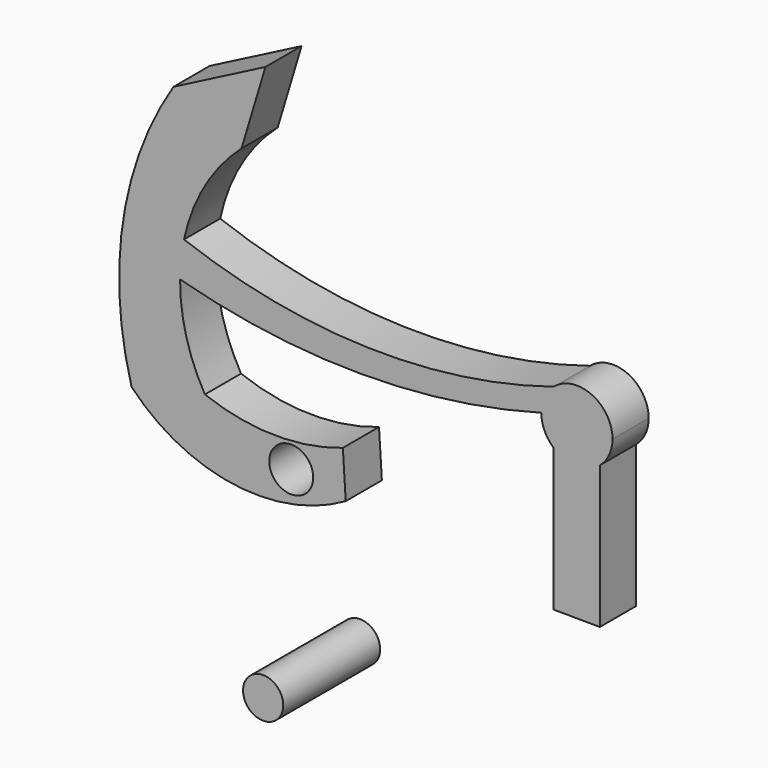
from build123d import *

# Parameters (mm, degrees)
F0_R     = 3.089539
F1_DEPTH = 6.35
F0_R_2   = 2.825653
F2_DEPTH = 17.018


with BuildPart() as f1:
    # F0 (on Front) → F1 (new body)
    with BuildSketch(Plane.XZ):
        Polygon((-56.688249, 23.506869), (-47.121864, 19.002175), (-43.765958, 30.166686), align=None)
        with BuildLine():
            ThreePointArc((-58.178127, 6.283986), (-56.695223, 5.683083), (-55.200634, 5.11186))
            ThreePointArc((-55.200634, 5.11186), (-52.276439, 12.705625), (-47.121864, 19.002175))
            Line((-47.121864, 19.002175), (-56.688249, 23.506869))
            ThreePointArc((-56.688249, 23.506869), (-63.779789, 4.613207), (-62.569864, -15.531184))
            ThreePointArc((-62.569864, -15.531184), (-48.277407, -22.903844), (-32.483652, -19.872714))
            Line((-32.483652, -19.872714), (-32.887511, -13.410942))
            ThreePointArc((-32.887511, -13.410942), (-42.606078, -14.962733), (-52.271411, -13.10802))
            ThreePointArc((-52.271411, -13.10802), (-54.894803, -6.788305), (-55.754967, 0))
            Line((-55.754967, 0), (-58.178127, 6.283986))
        make_face()
        with Locations((-40.140368, -18.433705)):
            Circle(F0_R, mode=Mode.SUBTRACT)
        with BuildLine():
            ThreePointArc((-5, 0), (-4.5455, 2.08289), (-3.264628, 3.78711))
            ThreePointArc((-3.264628, 3.78711), (-29.342787, 0.130887), (-55.200634, 5.11186))
            ThreePointArc((-55.200634, 5.11186), (-55.606148, 2.569848), (-55.754967, 0))
            ThreePointArc((-55.754967, 0), (-30.377484, -3.431996), (-5, 0))
        make_face()
        with BuildLine():
            ThreePointArc((3.223639, -3.822062), (4.534214, -2.107345), (5, 0))
            ThreePointArc((5, 0), (2.08289, 4.5455), (-3.264628, 3.78711))
            ThreePointArc((-3.264628, 3.78711), (-4.5455, 2.08289), (-5, 0))
            ThreePointArc((-5, 0), (-4.5455, -2.08289), (-3.264628, -3.78711))
            ThreePointArc((-3.264628, -3.78711), (-0.026934, -4.999927), (3.223639, -3.822062))
        make_face()
        with BuildLine():
            Line((3.223639, -23.822062), (3.223639, -3.822062))
            ThreePointArc((3.223639, -3.822062), (-0.026934, -4.999927), (-3.264628, -3.78711))
            Line((-3.264628, -3.78711), (-3.264628, -23.78711))
            Line((-3.264628, -23.78711), (3.223639, -23.822062))
        make_face()
        with BuildLine():
            ThreePointArc((-55.754967, 0), (-55.606148, 2.569848), (-55.200634, 5.11186))
            ThreePointArc((-55.200634, 5.11186), (-56.695223, 5.683083), (-58.178127, 6.283986))
            Line((-58.178127, 6.283986), (-55.754967, 0))
        make_face()
    extrude(amount=F1_DEPTH)


with BuildPart() as f2:
    # F0 (on Front) → F2 (new body)
    with BuildSketch(Plane.XZ):
        with Locations((-35.549257, -40.864926)):
            Circle(F0_R_2)
    extrude(amount=F2_DEPTH)


solid = Compound([f1.part, f2.part])
